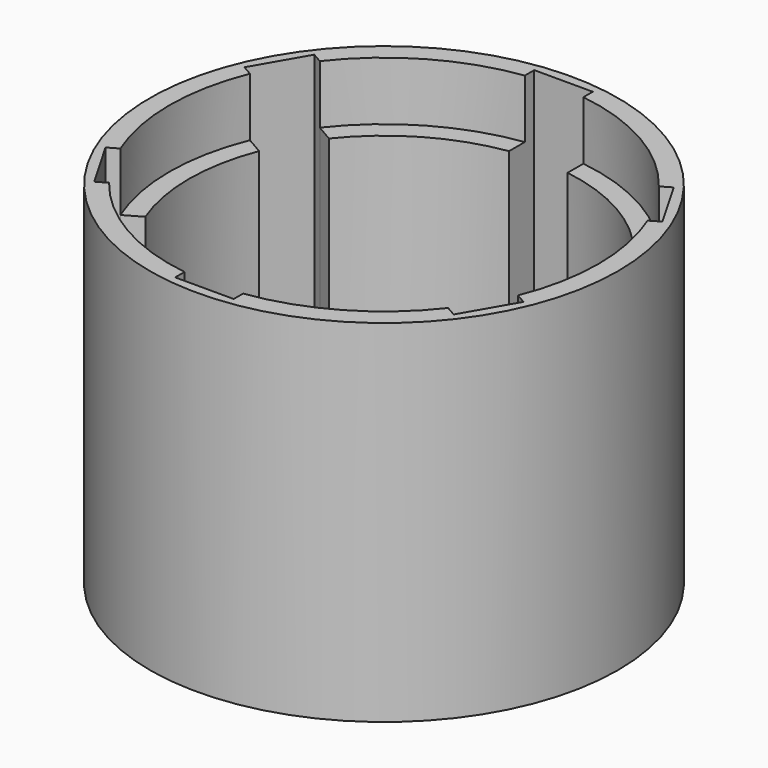
from build123d import *

# Parameters (mm, degrees)
F0_R     = 10
F1_DEPTH = 3
F0_R_2   = 11
F2_DEPTH = 15
F0_R_3   = 12
F3_DEPTH = 18
F4_R     = 1.5
F5_DEPTH = 3
F7_DEPTH = 15


with BuildPart() as f1:
    # F0 (on Top) → F1 (new body)
    with BuildSketch(Plane.XY):
        Circle(F0_R)
    extrude(amount=F1_DEPTH)

    # F0 (on Top) → F2 (join)
    with BuildSketch(Plane.XY):
        Circle(F0_R_2)
        Circle(F0_R, mode=Mode.SUBTRACT)
    extrude(amount=F2_DEPTH)

    # F0 (on Top) → F3 (join)
    with BuildSketch(Plane.XY):
        Circle(F0_R_3)
        Circle(F0_R_2, mode=Mode.SUBTRACT)
    extrude(amount=F3_DEPTH)

    # F4 (on face) → F5 (cut)
    with BuildSketch(Plane.XY.offset(3)):
        with Locations((0, -0.7618688396)):
            Circle(F4_R)
    extrude(amount=-F5_DEPTH, mode=Mode.SUBTRACT)

    # F6 (on face) → F7 (cut)
    with BuildSketch(Plane.XY.offset(18)):
        with BuildLine():
            Line((0, 1.7320508076), (1.5, 2.5980762114))
            Line((1.5, 2.5980762114), (1.5, 10.8972473589))
            ThreePointArc((1.5, 10.8972473589), (0, 11), (-1.5, 10.8972473589))
            Line((-1.5, 10.8972473589), (-1.5, 2.5980762114))
            Line((-1.5, 2.5980762114), (0, 1.7320508076))
        make_face()
        with BuildLine():
            ThreePointArc((-1.5, 10.8972473589), (0, 11), (1.5, 10.8972473589))
            Line((1.5, 10.8972473589), (1.5, 11.5))
            Line((1.5, 11.5), (-1.5, 11.5))
            Line((-1.5, 11.5), (-1.5, 10.8972473589))
        make_face()
        with BuildLine():
            Line((-10.7092921435, 4.4509618943), (-10.1872930441, 4.1495855737))
            ThreePointArc((-10.1872930441, 4.1495855737), (-9.5262794416, 5.5), (-8.6872930441, 6.7476617851))
            Line((-8.6872930441, 6.7476617851), (-9.2092921435, 7.0490381057))
            Line((-9.2092921435, 7.0490381057), (-10.7092921435, 4.4509618943))
        make_face()
        with BuildLine():
            Line((-3, 0), (-1.5, 0.8660254038))
            Line((-1.5, 0.8660254038), (-1.5, 2.5980762114))
            Line((-1.5, 2.5980762114), (-8.6872930441, 6.7476617851))
            ThreePointArc((-8.6872930441, 6.7476617851), (-9.5262794416, 5.5), (-10.1872930441, 4.1495855737))
            Line((-10.1872930441, 4.1495855737), (-3, 0))
        make_face()
        with BuildLine():
            Line((-8.6872930441, -6.7476617851), (-1.5, -2.5980762114))
            Line((-1.5, -2.5980762114), (-1.5, -0.8660254038))
            Line((-1.5, -0.8660254038), (-3, 0))
            Line((-3, 0), (-10.1872930441, -4.1495855737))
            ThreePointArc((-10.1872930441, -4.1495855737), (-9.5262794416, -5.5), (-8.6872930441, -6.7476617851))
        make_face()
        with BuildLine():
            ThreePointArc((-1.5, -10.8972473589), (0, -11), (1.5, -10.8972473589))
            Line((1.5, -10.8972473589), (1.5, -2.5980762114))
            Line((1.5, -2.5980762114), (0, -1.7320508076))
            Line((0, -1.7320508076), (-1.5, -2.5980762114))
            Line((-1.5, -2.5980762114), (-1.5, -10.8972473589))
        make_face()
        with BuildLine():
            Line((1.5, -0.8660254038), (1.5, -2.5980762114))
            Line((1.5, -2.5980762114), (8.6872930441, -6.7476617851))
            ThreePointArc((8.6872930441, -6.7476617851), (9.5262794416, -5.5), (10.1872930441, -4.1495855737))
            Line((10.1872930441, -4.1495855737), (3, 0))
            Line((3, 0), (1.5, -0.8660254038))
        make_face()
        with BuildLine():
            Line((1.5, 2.5980762114), (1.5, 0.8660254038))
            Line((1.5, 0.8660254038), (3, 0))
            Line((3, 0), (10.1872930441, 4.1495855737))
            ThreePointArc((10.1872930441, 4.1495855737), (9.5262794416, 5.5), (8.6872930441, 6.7476617851))
            Line((8.6872930441, 6.7476617851), (1.5, 2.5980762114))
        make_face()
        with BuildLine():
            ThreePointArc((8.6872930441, 6.7476617851), (9.5262794416, 5.5), (10.1872930441, 4.1495855737))
            Line((10.1872930441, 4.1495855737), (10.7092921435, 4.4509618943))
            Line((10.7092921435, 4.4509618943), (9.2092921435, 7.0490381057))
            Line((9.2092921435, 7.0490381057), (8.6872930441, 6.7476617851))
        make_face()
        with BuildLine():
            ThreePointArc((10.1872930441, -4.1495855737), (9.5262794416, -5.5), (8.6872930441, -6.7476617851))
            Line((8.6872930441, -6.7476617851), (9.2092921435, -7.0490381057))
            Line((9.2092921435, -7.0490381057), (10.7092921435, -4.4509618943))
            Line((10.7092921435, -4.4509618943), (10.1872930441, -4.1495855737))
        make_face()
        with BuildLine():
            Line((-1.5, -11.5), (1.5, -11.5))
            Line((1.5, -11.5), (1.5, -10.8972473589))
            ThreePointArc((1.5, -10.8972473589), (0, -11), (-1.5, -10.8972473589))
            Line((-1.5, -10.8972473589), (-1.5, -11.5))
        make_face()
        with BuildLine():
            Line((-9.2092921435, -7.0490381057), (-8.6872930441, -6.7476617851))
            ThreePointArc((-8.6872930441, -6.7476617851), (-9.5262794416, -5.5), (-10.1872930441, -4.1495855737))
            Line((-10.1872930441, -4.1495855737), (-10.7092921435, -4.4509618943))
            Line((-10.7092921435, -4.4509618943), (-9.2092921435, -7.0490381057))
        make_face()
    extrude(amount=-F7_DEPTH, mode=Mode.SUBTRACT)


solid = f1.part
